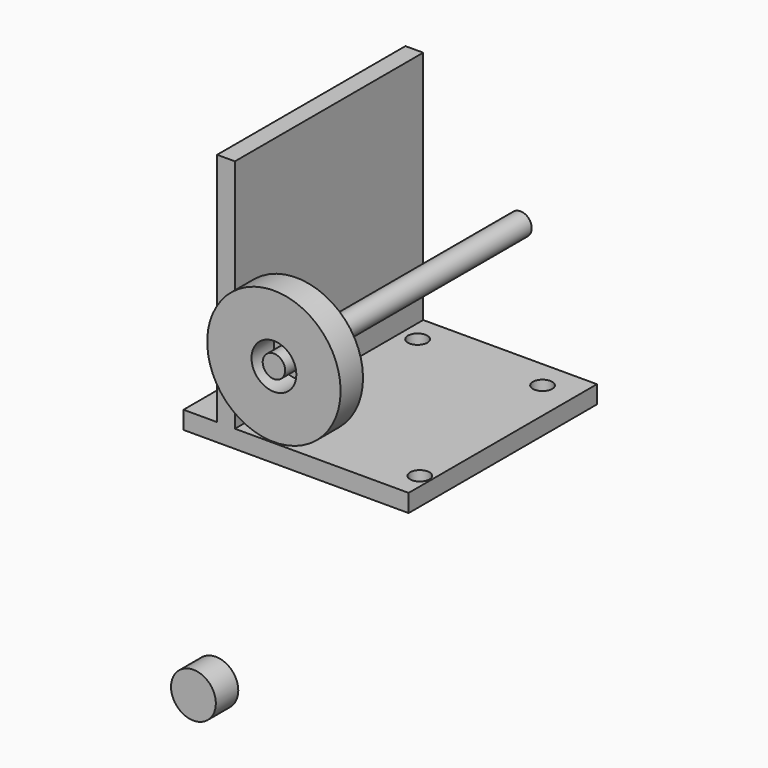
from build123d import *

# Parameters (mm, degrees)
F1_DEPTH       = 210
F3_D           = 10.5
F3_CBORE_D     = 17.25
F3_CBORE_DEPTH = 10
F4_R           = 20
F5_DEPTH       = 25
F4_R_2         = 10
F6_DEPTH       = 25
F7_DEPTH       = 25
F7_DEPTH_BACK  = 250
F8_R           = 20
F9_DEPTH       = 25


with BuildPart() as f1:
    # F0 (on Front) → F1 (new body)
    with BuildSketch(Plane.XZ):
        Polygon((0, 210), (0, 0), (-30, 0), (-30, -15.875), (170.875, -15.875), (170.875, 0), (15.875, 0), (15.875, 210), align=None)
    extrude(amount=-F1_DEPTH)

    # F3 (through all)
    with Locations(Plane.XY):
        with Locations((30.875, 25), (160.875, 25), (142.3562726393, 185), (30.875, 185)):
            CounterBoreHole(F3_D / 2, F3_CBORE_D / 2, F3_CBORE_DEPTH)

    # F4 (on face) → F5 (join)
    with BuildSketch(Plane.XZ):
        with BuildLine():
            Line((15.875, 53.8222089059), (15.875, 100.1777910941))
            ThreePointArc((15.875, 100.1777910941), (11.175, 77), (15.875, 53.8222089059))
        make_face()
        with BuildLine():
            ThreePointArc((15.875, 53.8222089059), (82.4997621541, 18.6868368205), (130.175, 77))
            ThreePointArc((130.175, 77), (82.4997621541, 135.3131631795), (15.875, 100.1777910941))
            Line((15.875, 100.1777910941), (15.875, 53.8222089059))
        make_face()
        with Locations((70.675, 77)):
            Circle(F4_R, mode=Mode.SUBTRACT)
    extrude(amount=F5_DEPTH)

    # F4 (on face) → F6 (join)
    with BuildSketch(Plane.XZ):
        with Locations((70.675, 77)):
            Circle(F4_R)
        with Locations((70.675, 77)):
            Circle(F4_R_2, mode=Mode.SUBTRACT)
    extrude(amount=-F6_DEPTH)

    # F4 (on face) → F7 (join, two sides)
    with BuildSketch(Plane.XZ) as f7_sk:
        with Locations((70.675, 77)):
            Circle(F4_R_2)
    extrude(amount=F7_DEPTH)
    extrude(f7_sk.sketch, amount=-F7_DEPTH_BACK)


with BuildPart() as f9:
    # F8 (on face) → F9 (new body)
    with BuildSketch(Plane.XZ.offset(25)):
        with Locations((18.8655378835, -187.9826025142)):
            Circle(F8_R)
    extrude(amount=F9_DEPTH)


solid = Compound([f1.part, f9.part])
